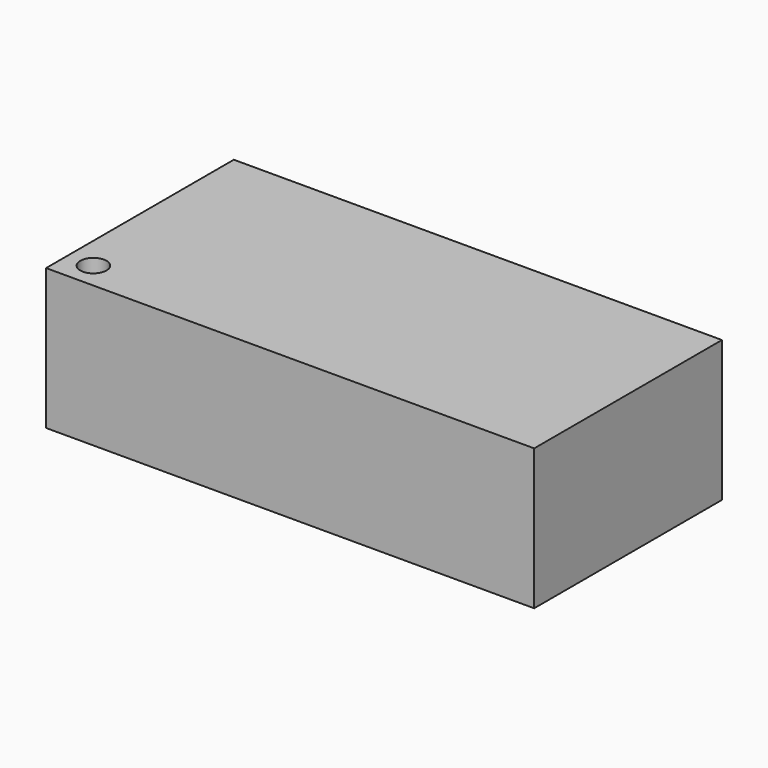
from build123d import *

# Parameters (mm, degrees)
F0_W     = 52
F0_H     = 25
F0_R     = 1.4
F1_DEPTH = 15
F2_T     = -1


with BuildPart() as f1:
    # F0 (on Top) → F1 (new body)
    with BuildSketch(Plane.XY):
        with Locations((26, -12.5)):
            Rectangle(F0_W, F0_H)
        with Locations((2.8, -22.2)):
            Circle(F0_R, mode=Mode.SUBTRACT)
    extrude(amount=F1_DEPTH)

    # F2
    f2_openings = [f1.faces().sort_by_distance(p)[0] for p in [
        (26.110411, -12.453837, 0),
    ]]
    offset(amount=F2_T, openings=f2_openings)


solid = f1.part
